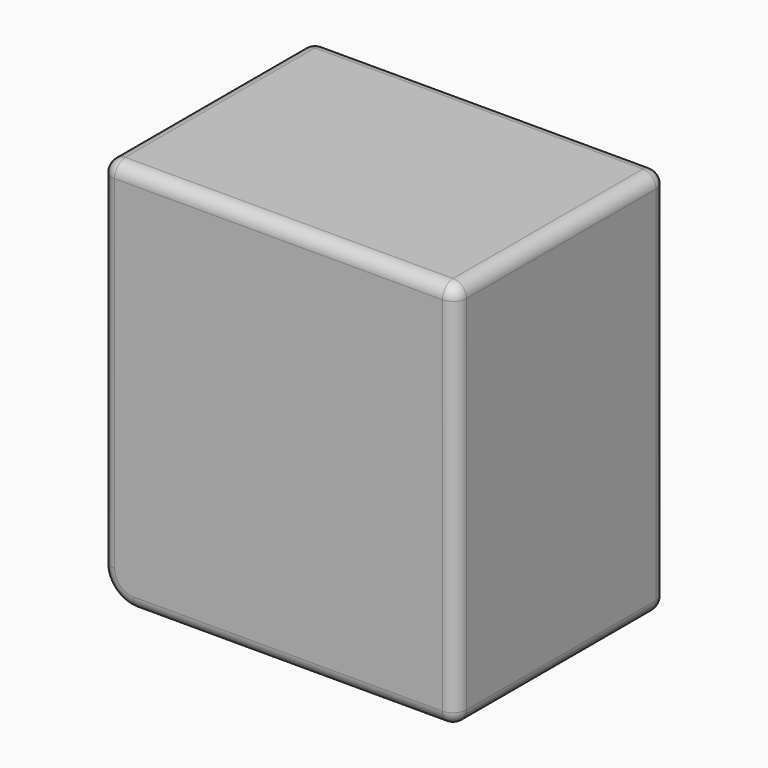
from build123d import *

# Parameters (mm, degrees)
SKETCH_W             = 160
SKETCH_H             = 119
PAD_DEPTH            = 175.5
THICKNESS_T          = -11
SKETCH001_W          = 138
SKETCH001_H          = 9.5
PAD001_DEPTH         = 108
SKETCH002_W          = 160
SKETCH002_H          = 175.5
PAD002_DEPTH         = 28.5
POCKET_DEPTH         = 20.5
POCKET001_DEPTH      = 11
POCKET002_DEPTH      = 32
POCKET002_DEPTH_BACK = 1
FILLET_R             = 14.5
FILLET001_R          = 6


with BuildPart() as part:
    # Sketch → Pad (new body)
    with BuildSketch(Plane.XY):
        with Locations((80, 59.5)):
            Rectangle(SKETCH_W, SKETCH_H)
    extrude(amount=PAD_DEPTH)

    # Thickness
    thickness_openings = [part.faces().sort_by_distance(p)[0] for p in [
        (80, 119, 87.75),
    ]]
    offset(amount=THICKNESS_T, openings=thickness_openings, kind=Kind.INTERSECTION)

    # Sketch001 (on Face6 of Thickness) → Pad001 (join)
    with BuildSketch(Plane(origin=(0, 119, 0), x_dir=(-1, 0, 0), z_dir=(0, 1, 0))):
        with Locations((-80, 15.75)):
            Rectangle(SKETCH001_W, SKETCH001_H)
    extrude(amount=-PAD001_DEPTH)

    # Sketch002 (on Face6 of Pad001) → Pad002 (join)
    with BuildSketch(Plane(origin=(0, 119, 0), x_dir=(-1, 0, 0), z_dir=(0, 1, 0))):
        with Locations((-80, 87.75)):
            Rectangle(SKETCH002_W, SKETCH002_H)
    extrude(amount=-PAD002_DEPTH)

    # Sketch003 (on Face4 of Pad002) → Pocket (cut)
    with BuildSketch(Plane(origin=(0, 0, 0), x_dir=(1, 0, 0), z_dir=(0, 0, -1))):
        with BuildLine():
            ThreePointArc((120.75, -42.749927), (88.999969, -11), (57.25, -42.749988))
            Line((57.25, -42.749988), (57.25, -53.450058))
            ThreePointArc((57.25, -53.450058), (89.000056, -85.2), (120.75, -53.449945))
            Line((120.75, -53.449945), (120.75, -42.749927))
        make_face()
    extrude(amount=-POCKET_DEPTH, mode=Mode.SUBTRACT)

    # Sketch004 (on Face2 of Pocket) → Pocket001 (cut)
    with BuildSketch(Plane(origin=(0, 0, 0), x_dir=(0, -1, 0), z_dir=(-1, 0, 0))):
        with BuildLine():
            ThreePointArc((-65, 127), (-90.5, 101.5), (-65, 76))
            Line((-65, 76), (-36.5, 76))
            ThreePointArc((-36.5, 76), (-11, 101.5), (-36.5, 127))
            Line((-65, 127), (-36.5, 127))
        make_face()
    extrude(amount=-POCKET001_DEPTH, mode=Mode.SUBTRACT)

    # Sketch005 (on Face6 of Pocket001) → Pocket002 (cut, two sides)
    with BuildSketch(Plane(origin=(0, 119, 0), x_dir=(-1, 0, 0), z_dir=(0, 1, 0))) as pocket002_sk:
        with BuildLine():
            ThreePointArc((-57.249999, 154.253521), (-88.999999, 163), (-120.749999, 154.253521))
            Line((-120.749999, 47.746479), (-120.749999, 154.253521))
            Line((-120.75, 47.746479), (-120.749999, 47.746479))
            ThreePointArc((-120.75, 47.746479), (-89, 39), (-57.249999, 47.746479))
            Line((-57.249999, 154.253521), (-57.249999, 47.746479))
        make_face()
    extrude(amount=-POCKET002_DEPTH, mode=Mode.SUBTRACT)
    extrude(pocket002_sk.sketch, amount=POCKET002_DEPTH_BACK, mode=Mode.SUBTRACT)

    # Fillet
    fillet_edges = [part.edges().sort_by_distance(p)[0] for p in [
        (0, 59.5, 0),
    ]]
    fillet(fillet_edges, radius=FILLET_R)

    # Fillet001
    fillet001_edges = [part.edges().sort_by_distance(p)[0] for p in [
        (87.25, 119, 0),
        (4.246952, 119, 4.246952),
        (0, 119, 95),
        (80, 119, 175.5),
        (160, 59.5, 175.5),
        (160, 119, 87.75),
        (160, 59.5, 0),
        (160, 0, 87.75),
        (87.25, 0, 0),
        (4.246952, 0, 4.246952),
        (0, 0, 95),
        (80, 0, 175.5),
        (0, 59.5, 175.5),
    ]]
    fillet(fillet001_edges, radius=FILLET001_R)


solid = part.part
